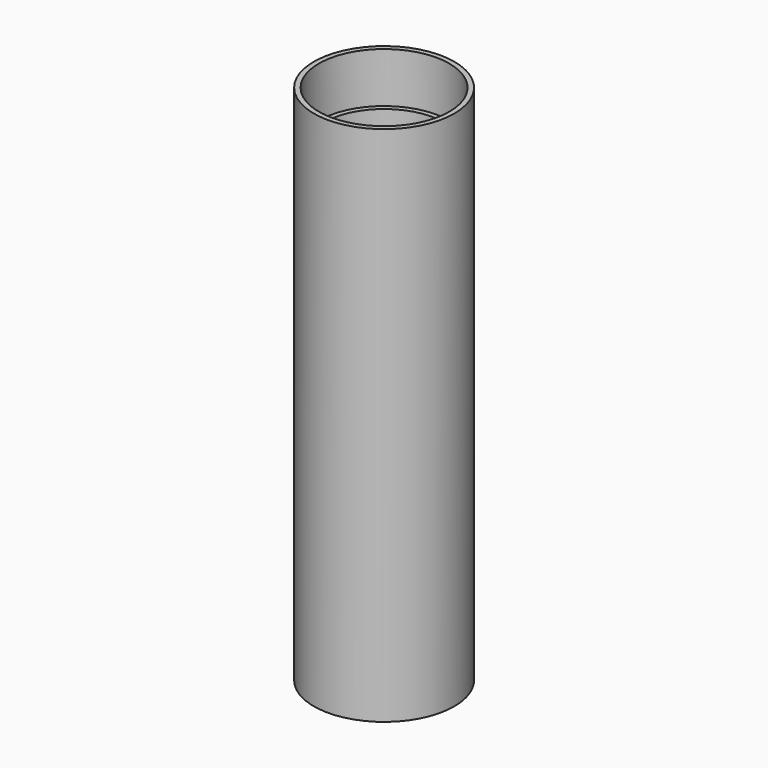
from build123d import *

# Parameters (mm, degrees)
F2_T     = -1
F3_R     = 6.5
F4_DEPTH = 5


with BuildPart() as f1:
    # F0 (on Front) → F1 (revolve)
    with BuildSketch(Plane.XZ):
        Polygon((0, 27.239302), (0, 0), (0, -24.760698), (7, -24.760698), (7, 27.239302), align=None)
    revolve(axis=Axis((0, 0, 13.619651), (0, 0, 1)))

    # F2
    f2_openings = [f1.faces().sort_by_distance(p)[0] for p in [
        (0, 0, 27.239302),
    ]]
    offset(amount=F2_T, openings=f2_openings)

    # F3 (on face) → F4 (cut)
    with BuildSketch(Plane.XY.offset(27.239302)):
        Circle(F3_R)
    extrude(amount=-F4_DEPTH, mode=Mode.SUBTRACT)


solid = f1.part
